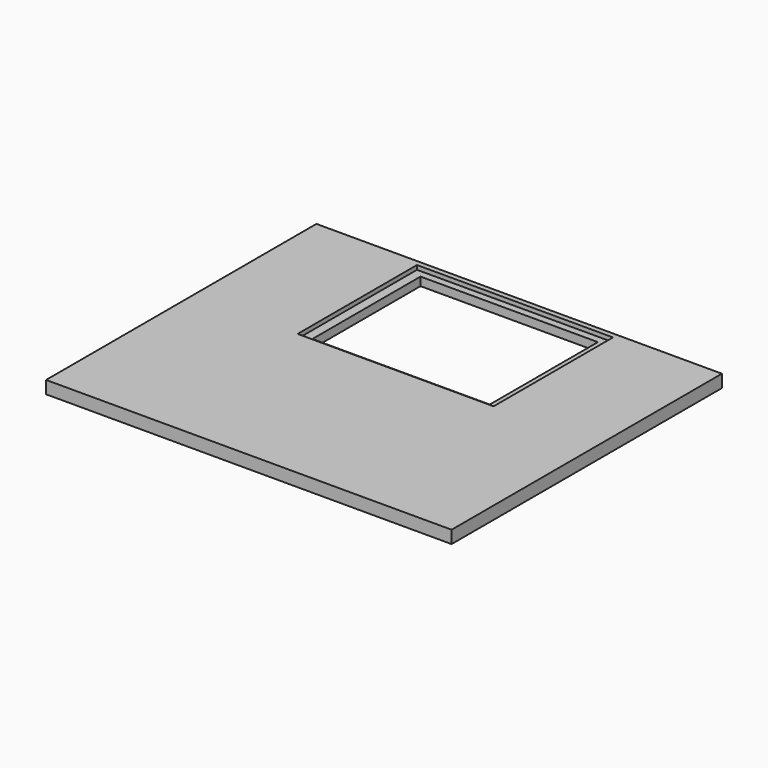
from build123d import *

# Parameters (mm, degrees)
F0_W     = 609.6
F0_H     = 508
F0_W_2   = 266.7
F0_H_2   = 203.2
F1_DEPTH = 12.7
F2_W     = 609.6
F2_H     = 508
F2_W_2   = 294.601322
F2_H_2   = 224.288658
F3_DEPTH = 6.35


with BuildPart() as f1:
    # F0 (on Top) → F1 (new body)
    with BuildSketch(Plane.XY):
        Rectangle(F0_W, F0_H)
        with Locations((0, 133.655697)):
            Rectangle(F0_W_2, F0_H_2, mode=Mode.SUBTRACT)
    extrude(amount=F1_DEPTH)

    # F2 (on face) → F3 (join)
    with BuildSketch(Plane.XY.offset(12.7)):
        Rectangle(F2_W, F2_H)
        with Locations((0, 133.950159)):
            Rectangle(F2_W_2, F2_H_2, mode=Mode.SUBTRACT)
    extrude(amount=F3_DEPTH)


solid = f1.part
